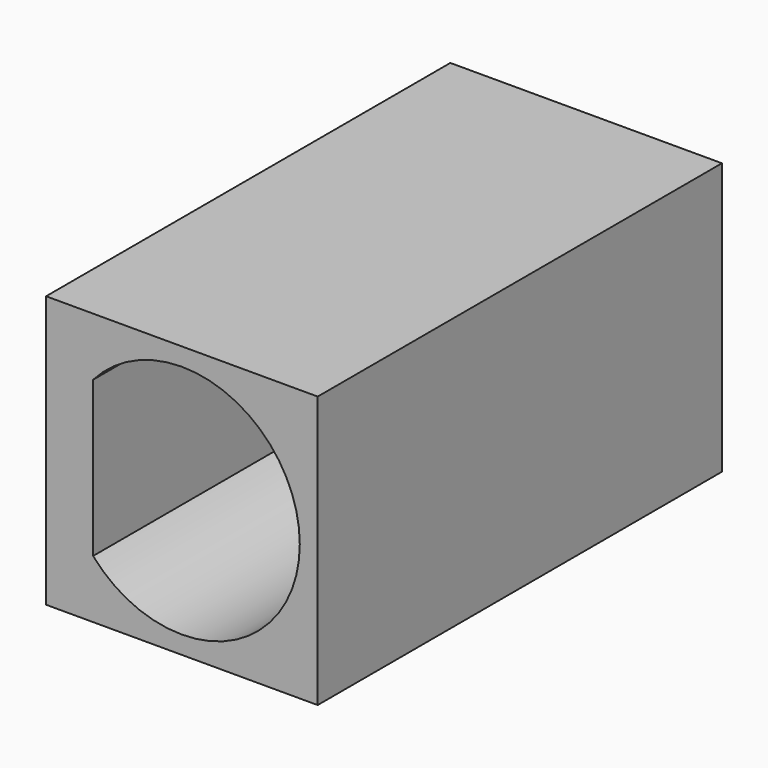
from build123d import *

# Parameters (mm, degrees)
F0_W     = 6.45
F0_H     = 6.45
F2_DEPTH = 12
F1_R     = 2.8
F3_DEPTH = 12
F4_W     = 0.8
F4_H     = 5.918589
F5_DEPTH = 12


with BuildPart() as f2:
    # F0 (on Front) → F2 (new body)
    with BuildSketch(Plane.XZ):
        Rectangle(F0_W, F0_H)
    extrude(amount=F2_DEPTH)

    # F1 (on Front) → F3 (cut)
    with BuildSketch(Plane.XZ):
        Circle(F1_R)
    extrude(amount=F3_DEPTH, mode=Mode.SUBTRACT)

    # F4 (on Front) → F5 (join)
    with BuildSketch(Plane.XZ):
        with Locations((-2.508641, 0.172032)):
            Rectangle(F4_W, F4_H)
    extrude(amount=F5_DEPTH)


solid = f2.part
